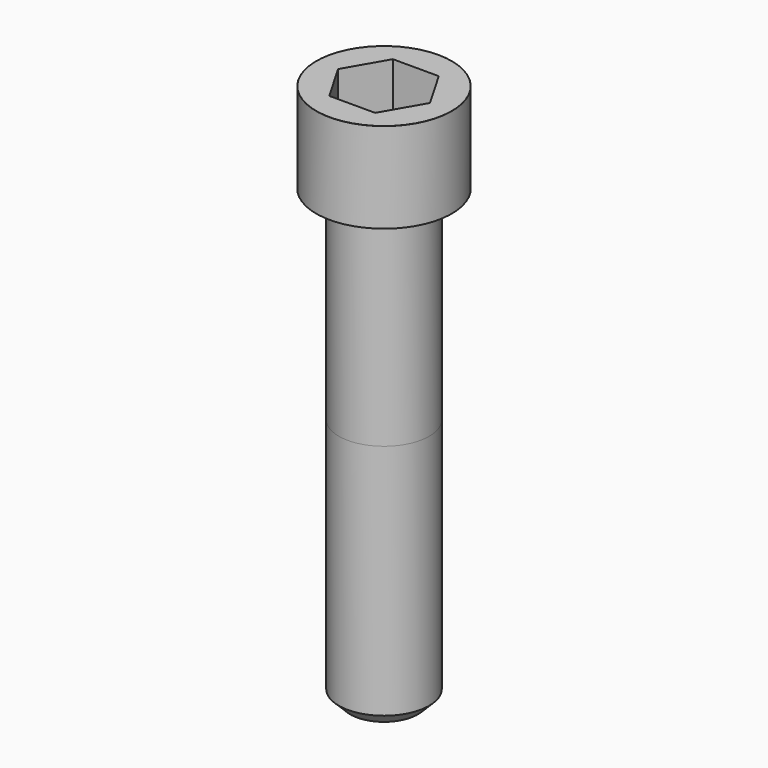
from build123d import *

# Parameters (mm, degrees)
POCKET_DEPTH = 14.08


with BuildPart() as part:
    # Sketch → Revolve (revolve)
    with BuildSketch(Plane.YZ):
        with BuildLine():
            Line((7.999, 0), (12, 0))
            Line((12, 0), (12, 15.97229))
            ThreePointArc((12, 15.97229), (11.991884, 15.991884), (11.97229, 16))
            Line((11.97229, 16), (0, 16))
            Line((0, -80), (0, 16))
            Line((6, -80), (0, -80))
            Line((8, -78), (6, -80))
            Line((8, -36), (8, -78))
            Line((7.999, 0), (8, -36))
        make_face()
    revolve(axis=Axis((0, 0, 0), (0, 0, 1)))

    # Sketch001 → Pocket (cut)
    with BuildSketch(Plane.XY.offset(16)):
        Polygon((8.129092, 0), (4.064546, 7.04), (-4.064546, 7.04), (-8.129092, 0), (-4.064546, -7.04), (4.064546, -7.04), align=None)
    extrude(amount=-POCKET_DEPTH, mode=Mode.SUBTRACT)


solid = part.part
